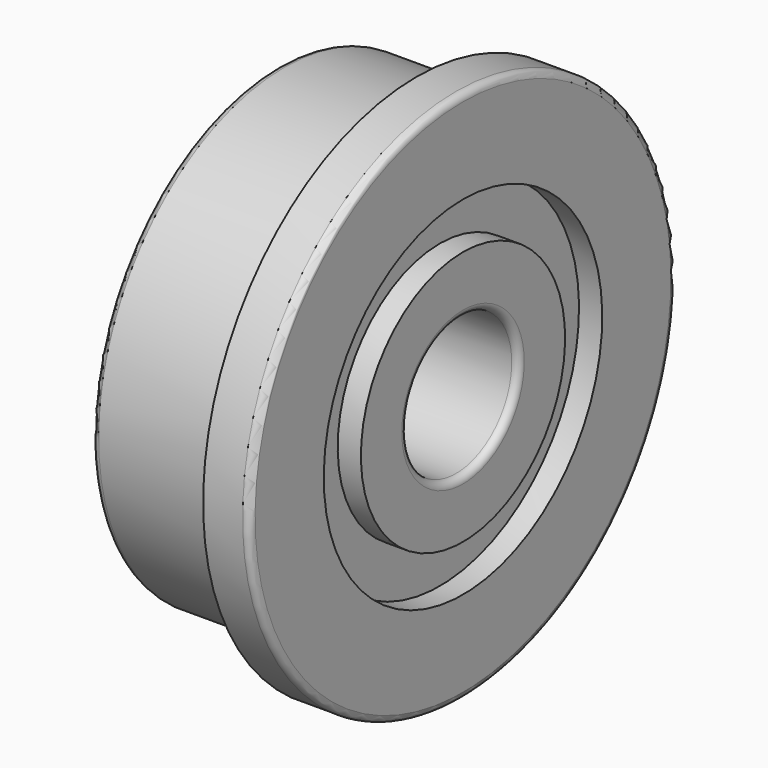
from build123d import *

# Parameters (mm, degrees)
F2_R = 0.15


with BuildPart() as f1:
    # F0 (on Front) → F1 (revolve)
    with BuildSketch(Plane.XZ):
        Polygon((-2, 2.75), (-2, 1.5), (2, 1.5), (2, 2.75), (1.5, 2.75), (1.5, 3.75), (2, 3.75), (2, 5.75), (1, 5.75), (1, 5), (-2, 5), (-2, 3.75), (-1.5, 3.75), (-1.5, 2.75), align=None)
    revolve(axis=Axis((-2.919078, 0, 0), (-1, 0, 0)))

    # F2
    f2_edges = [f1.edges().sort_by_distance(p)[0] for p in [
        (-2, 0, -5),
        (2, 0, -5.75),
        (-2, 0, -1.5),
        (2, 0, -1.5),
    ]]
    fillet(f2_edges, radius=F2_R)


solid = f1.part
